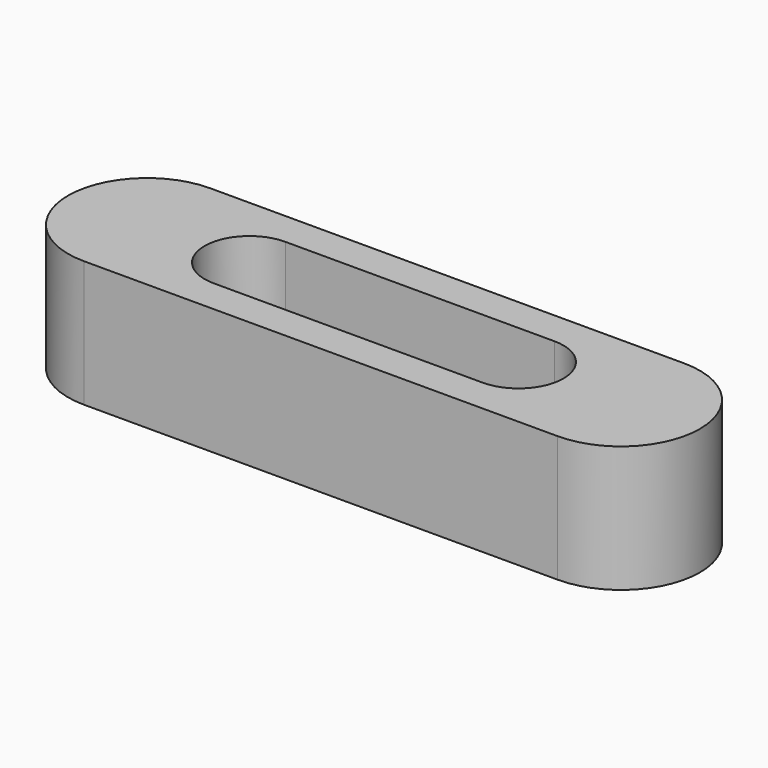
from build123d import *

# Parameters (mm, degrees)
F1_DEPTH = 12.7
F3_DEPTH = 12.7


with BuildPart() as f1:
    # F0 (on Top) → F1 (new body)
    with BuildSketch(Plane.XY):
        with BuildLine():
            Line((-47.625, -15.875), (47.625, -15.875))
            ThreePointArc((47.625, -15.875), (63.5, 0), (47.625, 15.875))
            Line((47.625, 15.875), (-47.625, 15.875))
            ThreePointArc((-47.625, 15.875), (-63.5, 0), (-47.625, -15.875))
        make_face()
        with BuildLine():
            ThreePointArc((27.051, 9.017), (36.068, 0), (27.051, -9.017))
            Line((27.051, -9.017), (-27.051, -9.017))
            ThreePointArc((-27.051, -9.017), (-36.068, 0), (-27.051, 9.017))
            Line((-27.051, 9.017), (27.051, 9.017))
        make_face(mode=Mode.SUBTRACT)
    extrude(amount=F1_DEPTH)

    # F2 (on face) → F3 (join)
    with BuildSketch(Plane(origin=(0, 0, 0), x_dir=(1, 0, 0), z_dir=(0, 0, -1))):
        with BuildLine():
            ThreePointArc((47.625, -15.875), (63.5, 0), (47.625, 15.875))
            Line((47.625, 15.875), (-47.625, 15.875))
            ThreePointArc((-47.625, 15.875), (-63.5, 0), (-47.625, -15.875))
            Line((-47.625, -15.875), (47.625, -15.875))
        make_face()
        with BuildLine():
            Line((27.051, -9.017), (14.859, -9.017))
            Line((14.859, -9.017), (-14.859, -9.017))
            Line((-14.859, -9.017), (-27.051, -9.017))
            ThreePointArc((-27.051, -9.017), (-36.068, 0), (-27.051, 9.017))
            Line((-27.051, 9.017), (-14.859, 9.017))
            Line((-14.859, 9.017), (14.859, 9.017))
            Line((14.859, 9.017), (27.051, 9.017))
            ThreePointArc((27.051, 9.017), (36.068, 0), (27.051, -9.017))
        make_face(mode=Mode.SUBTRACT)
        with BuildLine():
            Line((-27.051, -9.017), (-14.859, -9.017))
            ThreePointArc((-14.859, -9.017), (-23.876, 0), (-14.859, 9.017))
            Line((-14.859, 9.017), (-27.051, 9.017))
            ThreePointArc((-27.051, 9.017), (-36.068, 0), (-27.051, -9.017))
        make_face()
        with BuildLine():
            ThreePointArc((14.859, 9.017), (23.876, 0), (14.859, -9.017))
            Line((14.859, -9.017), (27.051, -9.017))
            ThreePointArc((27.051, -9.017), (36.068, 0), (27.051, 9.017))
            Line((27.051, 9.017), (14.859, 9.017))
        make_face()
    extrude(amount=F3_DEPTH)


solid = f1.part
